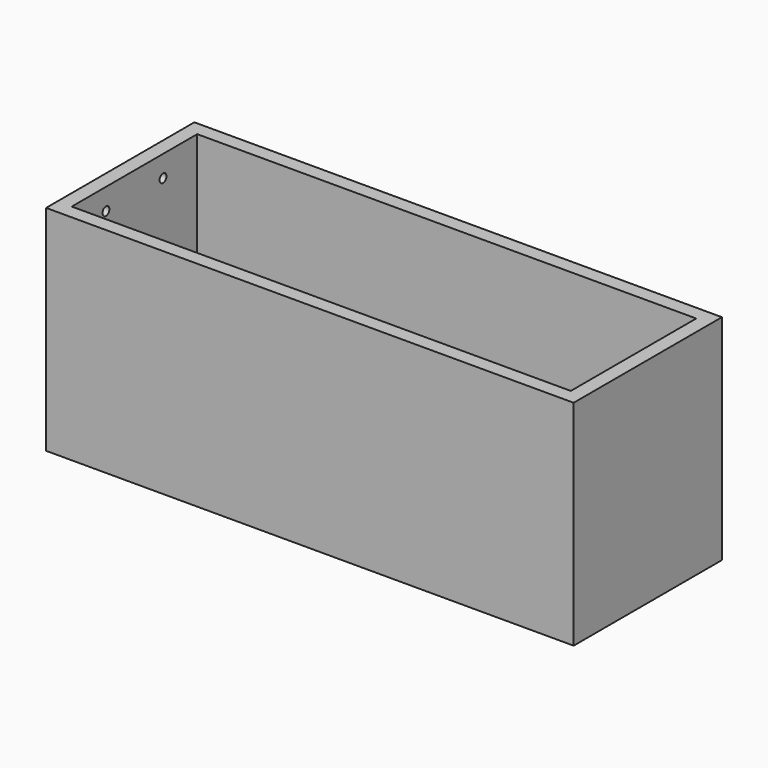
from build123d import *

# Parameters (mm, degrees)
F0_W     = 370
F0_H     = 130
F1_DEPTH = 150
F2_T     = -10
F3_R     = 3
F4_DEPTH = 25


with BuildPart() as f1:
    # F0 (on Top) → F1 (new body)
    with BuildSketch(Plane.XY):
        Rectangle(F0_W, F0_H)
    extrude(amount=F1_DEPTH)

    # F2
    f2_openings = [f1.faces().sort_by_distance(p)[0] for p in [
        (0, 0, 150),
    ]]
    offset(amount=F2_T, openings=f2_openings)

    # F3 (on face) → F4 (cut)
    with BuildSketch(Plane(origin=(-185, 0, 0), x_dir=(0, -1, 0), z_dir=(-1, 0, 0))):
        with Locations((-25, 135)):
            Circle(F3_R)
        with Locations((25, 135)):
            Circle(F3_R)
    extrude(amount=-F4_DEPTH, mode=Mode.SUBTRACT)


solid = f1.part
